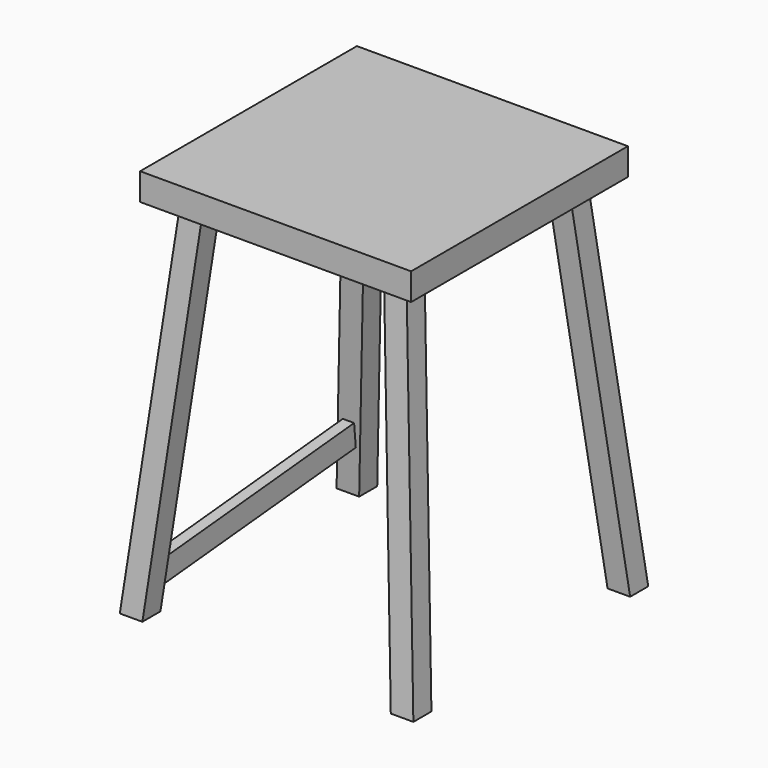
from build123d import *

# Parameters (mm, degrees)
F0_W      = 60
F0_H      = 60
F1_DEPTH  = 6
F2_W      = 5
F2_H      = 5
F4_W      = 5
F4_H      = 5
F7_W      = 5
F7_H      = 5
F6_W      = 5
F6_H      = 5
F9_W      = 5
F9_H      = 5
F10_W     = 5
F10_H     = 5
F12_W     = 5
F12_H     = 5
F13_W     = 5
F13_H     = 5
F15_W     = 2.5
F15_H     = 5
F16_DEPTH = 55


with BuildPart() as f1:
    # F0 (on Top) → F1 (new body)
    with BuildSketch(Plane.XY):
        Rectangle(F0_W, F0_H)
    extrude(amount=F1_DEPTH)

    # F2 (on face) → F5 section 0
    with BuildSketch(Plane(origin=(0, 0, 0), x_dir=(1, 0, 0), z_dir=(0, 0, -1))):
        with Locations((-22.5, -22.5)):
            Rectangle(F2_W, F2_H)
    # F4 (on offset) → F5 section 1
    with BuildSketch(Plane.XY.offset(-80)):
        with Locations((-30, 30)):
            Rectangle(F4_W, F4_H)
    loft()

    # F7 (on offset) → F8 section 0
    with BuildSketch(Plane.XY.offset(-80)):
        with Locations((-30, -30)):
            Rectangle(F7_W, F7_H)
    # F6 (on face) → F8 section 1
    with BuildSketch(Plane(origin=(0, 0, 0), x_dir=(1, 0, 0), z_dir=(0, 0, -1))):
        with Locations((-22.5, 22.5)):
            Rectangle(F6_W, F6_H)
    loft()

    # F9 (on offset) → F11 section 0
    with BuildSketch(Plane.XY.offset(-80)):
        with Locations((30, -30)):
            Rectangle(F9_W, F9_H)
    # F10 (on face) → F11 section 1
    with BuildSketch(Plane(origin=(0, 0, 0), x_dir=(1, 0, 0), z_dir=(0, 0, -1))):
        with Locations((22.5, 22.5)):
            Rectangle(F10_W, F10_H)
    loft()

    # F12 (on offset) → F14 section 0
    with BuildSketch(Plane.XY.offset(-80)):
        with Locations((30, 30)):
            Rectangle(F12_W, F12_H)
    # F13 (on face) → F14 section 1
    with BuildSketch(Plane(origin=(0, 0, 0), x_dir=(1, 0, 0), z_dir=(0, 0, -1))):
        with Locations((22.5, -22.5)):
            Rectangle(F13_W, F13_H)
    loft()

    # F15 (on face) → F16 (join)
    with BuildSketch(Plane(origin=(0, 19.82575, 1.858664), x_dir=(1, 0, 0), z_dir=(0, -0.995634, -0.093341))):
        with Locations((-28.75, -69.717608)):
            Rectangle(F15_W, F15_H)
    extrude(amount=F16_DEPTH)


solid = f1.part
